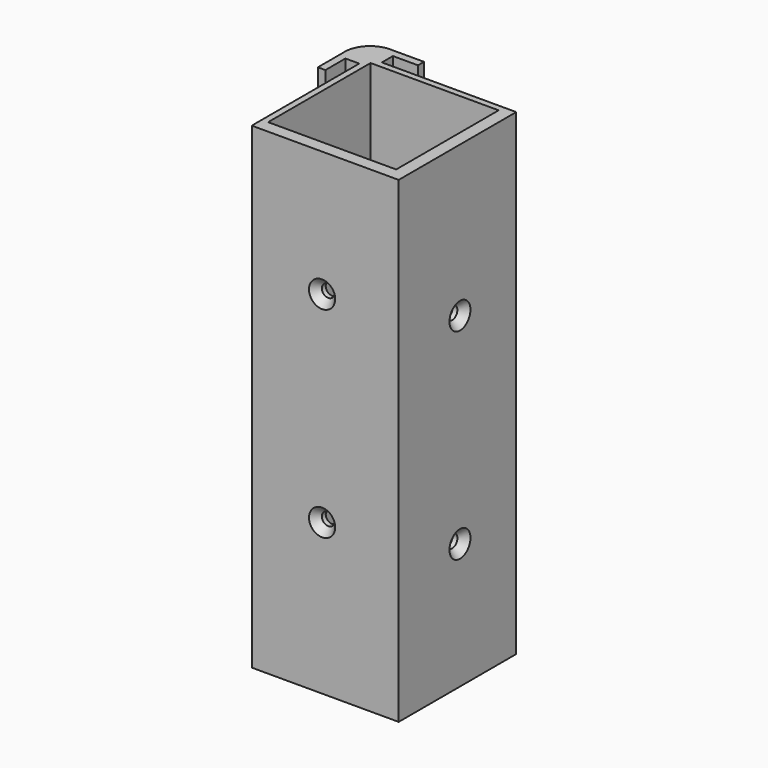
from build123d import *

# Parameters (mm, degrees)
F0_W           = 5
F0_H           = 5.5
F0_W_2         = 5.5
F0_H_2         = 5
F0_W_3         = 51
F0_H_3         = 51
F1_DEPTH       = 190
F2_R           = 10
F4_D           = 5.1054
F4_DEPTH       = 12
F4_CSINK_D     = 10.4394
F4_CSINK_ANGLE = 82
F4_TIP         = 1.5338169022
F6_D           = 5.1054
F6_DEPTH       = 12
F6_CSINK_D     = 10.4394
F6_CSINK_ANGLE = 82
F6_TIP         = 1.5338169022


with BuildPart() as f1:
    # F0 (on Top) → F1 (new body)
    with BuildSketch(Plane.XY):
        Polygon((-33.5, 28), (-28, 28), (-28, 33.5), (-28, 36.5), (-36.5, 36.5), (-36.5, 28), align=None)
        Polygon((-28, 36.5), (-28, 33.5), (-23, 33.5), (-13, 33.5), (-13, 36.5), align=None)
        with Locations((-25.5, 30.75)):
            Rectangle(F0_W, F0_H)
        with Locations((-30.75, 25.5)):
            Rectangle(F0_W_2, F0_H_2)
        Polygon((-33.5, 23), (-33.5, 28), (-36.5, 28), (-36.5, 13), (-33.5, 13), align=None)
        Polygon((-23, 28), (-28, 28), (-28, 23), (-28, -30.5), (30.5, -30.5), (30.5, 28), align=None)
        Rectangle(F0_W_3, F0_H_3, mode=Mode.SUBTRACT)
    extrude(amount=F1_DEPTH)

    # F2
    f2_edges = [f1.edges().sort_by_distance(p)[0] for p in [
        (-36.5, 36.5, 95),
    ]]
    fillet(f2_edges, radius=F2_R)

    # F4
    with Locations(Plane.XZ.offset(30.5)):
        with Locations((0, 140), (0, 60)):
            CounterSinkHole(F4_D / 2, F4_CSINK_D / 2, depth=F4_DEPTH, counter_sink_angle=F4_CSINK_ANGLE)
            with Locations((0, 0, -(F4_DEPTH + F4_TIP / 2))):  # 118° drill point
                Cone(0, F4_D / 2, F4_TIP, mode=Mode.SUBTRACT)

    # F6
    with Locations(Plane.YZ.offset(30.5)):
        with Locations((0, 130), (0, 50)):
            CounterSinkHole(F6_D / 2, F6_CSINK_D / 2, depth=F6_DEPTH, counter_sink_angle=F6_CSINK_ANGLE)
            with Locations((0, 0, -(F6_DEPTH + F6_TIP / 2))):  # 118° drill point
                Cone(0, F6_D / 2, F6_TIP, mode=Mode.SUBTRACT)


solid = f1.part
